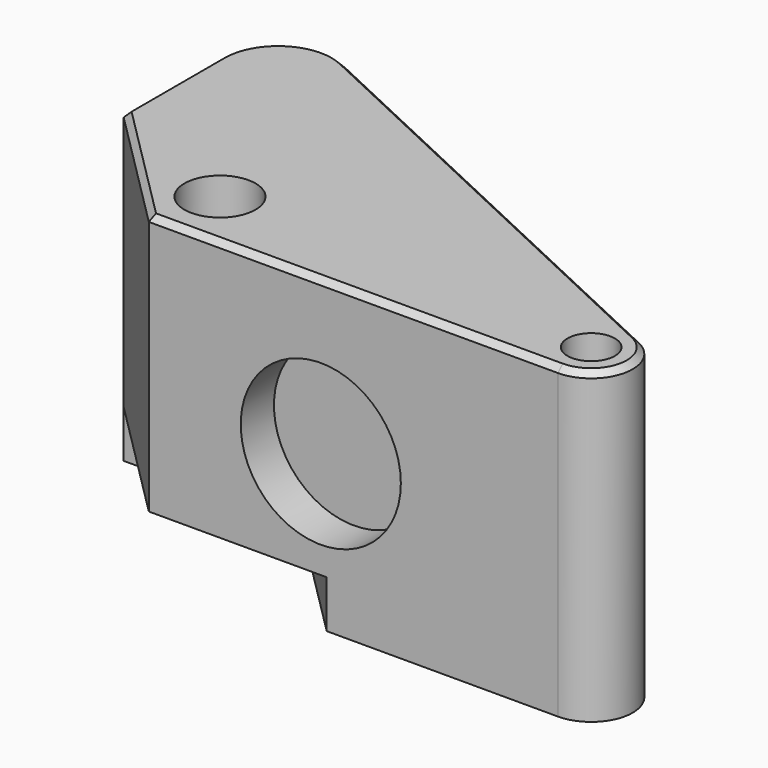
from build123d import *

# Parameters (mm, degrees)
SKETCH_R          = 2
PAD_DEPTH         = 26
POCKET_DEPTH      = 12
POCKET_DEPTH_BACK = -12
POCKET001_DEPTH   = 4
CHAMFER_SIZE      = 3
SKETCH003_R       = 3
POCKET002_DEPTH   = 26
SKETCH004_R       = 6.75
POCKET003_DEPTH   = 5
FILLET_R          = 4.5
FILLET001_R       = 5
CHAMFER001_SIZE   = 0.5


with BuildPart() as part:
    # Sketch → Pad (new body)
    with BuildSketch(Plane.XY):
        with BuildLine():
            ThreePointArc((1e-06, -3.5), (3.416335, -0.760696), (1.485025, 3.169337))
            Line((-45.1066, 25), (1.485025, 3.169337))
            Line((-45.1066, 7.106602), (-45.1066, 25))
            Line((-34.499999, -3.5), (-45.1066, 7.106602))
            Line((1e-06, -3.5), (-34.499999, -3.5))
        make_face()
        Circle(SKETCH_R, mode=Mode.SUBTRACT)
    extrude(amount=PAD_DEPTH)

    # Sketch001 (on DatumPlane) → Pocket (cut, two sides)
    with BuildSketch(Plane.XY.offset(13)) as pocket_sk:
        Polygon((-60, 17), (-10, 17), (-60, 55), align=None)
    extrude(amount=-POCKET_DEPTH, mode=Mode.SUBTRACT)
    extrude(pocket_sk.sketch, amount=-POCKET_DEPTH_BACK, mode=Mode.SUBTRACT)

    # Sketch002 → Pocket001 (cut)
    with BuildSketch(Plane.XY):
        Polygon((-19.5, -3.5), (-30.106602, 7.106602), (-45.106602, 7.106602), (-34.5, -3.5), align=None)
    extrude(amount=POCKET001_DEPTH, mode=Mode.SUBTRACT)

    # Chamfer
    chamfer_edges = [part.edges().sort_by_distance(p)[0] for p in [
        (-36.569686, 17, 1),
        (-36.569686, 17, 25),
    ]]
    chamfer(chamfer_edges, length=CHAMFER_SIZE)

    # Sketch003 → Pocket002 (cut)
    with BuildSketch(Plane.XY):
        with Locations((-32.5, 1.5)):
            Circle(SKETCH003_R)
    extrude(amount=POCKET002_DEPTH, mode=Mode.SUBTRACT)

    # Sketch004 → Pocket003 (cut)
    with BuildSketch(Plane.XZ):
        with Locations((-20, 13)):
            Circle(SKETCH004_R)
    extrude(amount=POCKET003_DEPTH, mode=Mode.SUBTRACT)

    # Fillet
    fillet_edges = [part.edges().sort_by_distance(p)[0] for p in [
        (-45.1066, 17, 13),
        (-45.1066, 18.5, 2.5),
        (-45.1066, 18.5, 23.5),
        (-31.234114, 18.5, 23.5),
        (-31.234114, 18.5, 2.5),
    ]]
    fillet(fillet_edges, radius=FILLET_R)

    # Fillet001
    fillet001_edges = [part.edges().sort_by_distance(p)[0] for p in [
        (-45.1066, 25, 0.5),
        (-45.1066, 25, 25.5),
    ]]
    fillet(fillet001_edges, radius=FILLET001_R)

    # Chamfer001
    chamfer001_edges = [part.edges().sort_by_distance(p)[0] for p in [
        (-39.803299, 1.803301, 26),
        (-18.250068, 12.416282, 26),
    ]]
    chamfer(chamfer001_edges, length=CHAMFER001_SIZE)


solid = part.part
